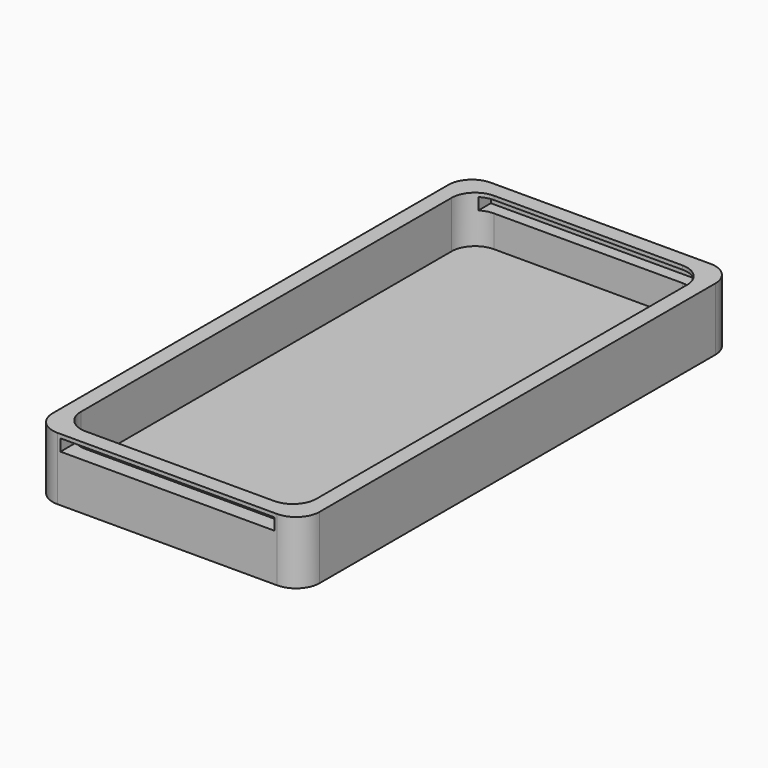
from build123d import *

# Parameters (mm, degrees)
F1_W     = 34
F1_H     = 69
F1_W_2   = 30
F1_H_2   = 65
F2_DEPTH = 8
F3_DEPTH = 2
F4_R     = 3
F5_W     = 27.269229
F5_H     = 1.5
F6_DEPTH = 25
F7_DEPTH = 45.4


with BuildPart() as f2:
    # F1 (on face) → F2 (new body)
    with BuildSketch(Plane.XY):
        with Locations((1.3335, 11.379073)):
            Rectangle(F1_W, F1_H)
        with Locations((1.3335, 11.379073)):
            Rectangle(F1_W_2, F1_H_2, mode=Mode.SUBTRACT)
    extrude(amount=F2_DEPTH)

    # F1 (on face) → F3 (join)
    with BuildSketch(Plane.XY):
        with Locations((1.3335, 11.379073)):
            Rectangle(F1_W, F1_H)
    extrude(amount=F3_DEPTH)

    # F4
    f4_edges = [f2.edges().sort_by_distance(p)[0] for p in [
        (-15.6665, 45.879073, 4),
        (18.3335, 45.879073, 4),
        (18.3335, -23.120927, 4),
        (-15.6665, -23.120927, 4),
        (-13.6665, 43.879073, 5),
        (16.3335, 43.879073, 5),
        (16.3335, -21.120927, 5),
        (-13.6665, -21.120927, 5),
    ]]
    fillet(f4_edges, radius=F4_R)

    # F5 (on Front) → F6 (cut)
    with BuildSketch(Plane.XZ):
        with Locations((1.363065, 6.764378)):
            Rectangle(F5_W, F5_H)
    extrude(amount=F6_DEPTH, mode=Mode.SUBTRACT)

    # F5 (on Front) → F7 (cut)
    with BuildSketch(Plane.XZ):
        with Locations((1.363065, 6.764378)):
            Rectangle(F5_W, F5_H)
    extrude(amount=-F7_DEPTH, mode=Mode.SUBTRACT)


solid = f2.part
